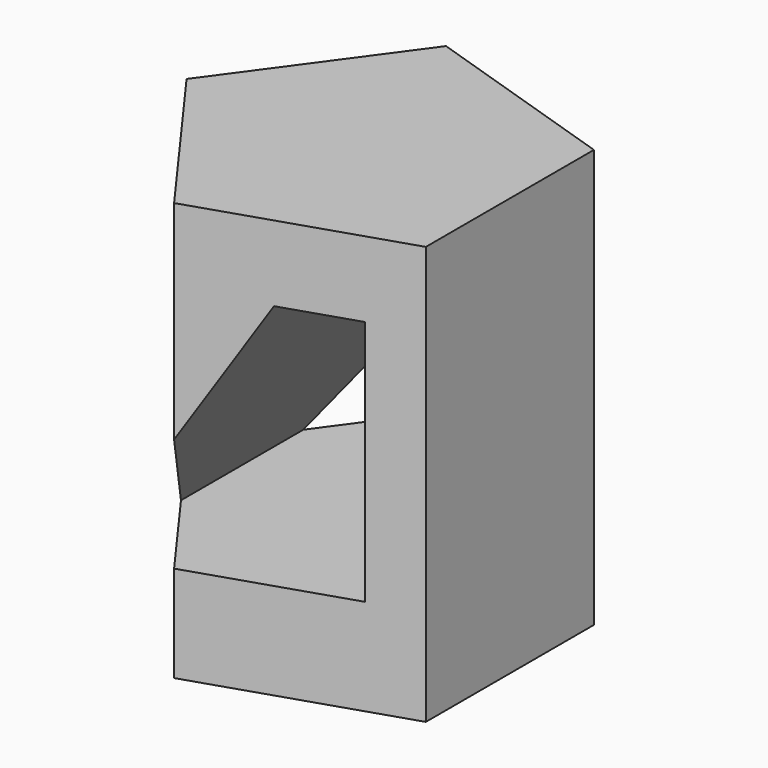
from build123d import *

# Parameters (mm, degrees)
F1_DEPTH = 38.1
F3_DEPTH = 27.686


with BuildPart() as f1:
    # F0 (on Top) → F1 (new body)
    with BuildSketch(Plane.XY):
        Polygon((13.172377, -9.570292), (13.172377, 9.570292), (-5.0314, 15.485058), (-16.281953, 0), (-5.0314, -15.485058), align=None)
    extrude(amount=F1_DEPTH)

    # F2 (on Front) → F3 (cut, symmetric)
    with BuildSketch(Plane.XZ):
        Polygon((8.781587, 31.223414), (2.195396, 31.223414), (-11.220914, 8.781586), (8.781587, 8.781586), align=None)
    extrude(amount=F3_DEPTH, both=True, mode=Mode.SUBTRACT)


solid = f1.part
